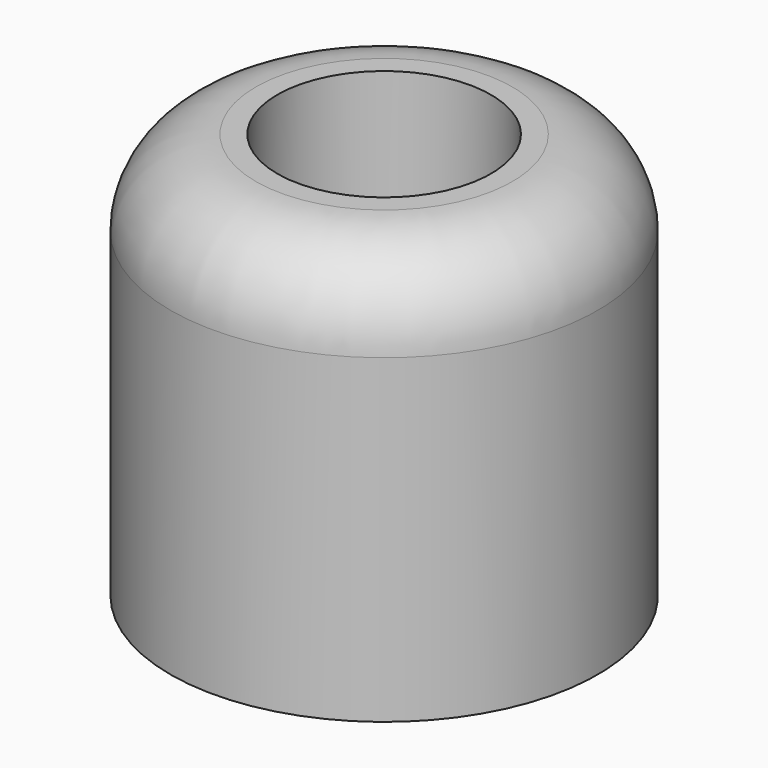
from build123d import *


with BuildPart() as f1:
    # F0 (on Front) → F1 (revolve)
    with BuildSketch(Plane.XZ):
        with BuildLine():
            Line((-5, -4.368016), (-5, 5.631984))
            Line((-5, 5.631984), (-6, 5.631984))
            ThreePointArc((-6, 5.631984), (-8.828427, 4.460411), (-10, 1.631984))
            Line((-10, 1.631984), (-10, -13.368016))
            Line((-10, -13.368016), (0, -13.368016))
            Line((0, -13.368016), (0, -8.368016))
            Line((0, -8.368016), (-1, -8.368016))
            ThreePointArc((-1, -8.368016), (-3.828427, -7.196443), (-5, -4.368016))
        make_face()
    revolve(axis=Axis((0, 0, -10.868016), (0, 0, -1)))


solid = f1.part
